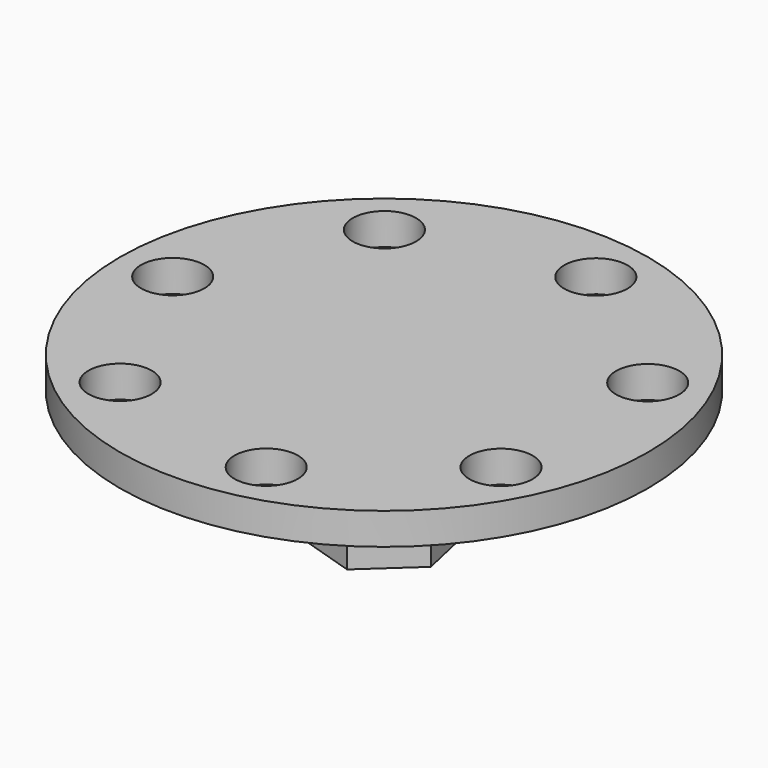
from build123d import *

# Parameters (mm, degrees)
F0_R     = 12.5
F0_R_2   = 1.5
F0_R_3   = 4
F1_DEPTH = 1.5
F2_DEPTH = 2
F4_DEPTH = 4


with BuildPart() as f1:
    # F0 (on Top) → F1 (new body)
    with BuildSketch(Plane.XY):
        Circle(F0_R)
        with Locations((-6.234898, -7.818315)):
            Circle(F0_R_2, mode=Mode.SUBTRACT)
        with Locations((2.225209, -9.749279)):
            Circle(F0_R_2, mode=Mode.SUBTRACT)
        with Locations((9.009689, -4.338837)):
            Circle(F0_R_2, mode=Mode.SUBTRACT)
        with Locations((-10, 0)):
            Circle(F0_R_2, mode=Mode.SUBTRACT)
        with Locations((-6.234898, 7.818315)):
            Circle(F0_R_2, mode=Mode.SUBTRACT)
        Circle(F0_R_3, mode=Mode.SUBTRACT)
        with Locations((9.009689, 4.338837)):
            Circle(F0_R_2, mode=Mode.SUBTRACT)
        with Locations((2.225209, 9.749279)):
            Circle(F0_R_2, mode=Mode.SUBTRACT)
        Circle(F0_R_3)
    extrude(amount=F1_DEPTH)

    # F0 (on Top) → F2 (join)
    with BuildSketch(Plane.XY):
        Circle(F0_R_3)
    extrude(amount=-F2_DEPTH)

    # F3 (on face) → F4 (join)
    with BuildSketch(Plane(origin=(0, 0, -2), x_dir=(1, 0, 0), z_dir=(0, 0, -1))):
        Polygon((-0.672768, -3.026117), (2.28431, -2.095692), (2.957078, 0.930425), (0.672768, 3.026117), (-2.28431, 2.095692), (-2.957078, -0.930425), align=None)
    extrude(amount=F4_DEPTH)


solid = f1.part
